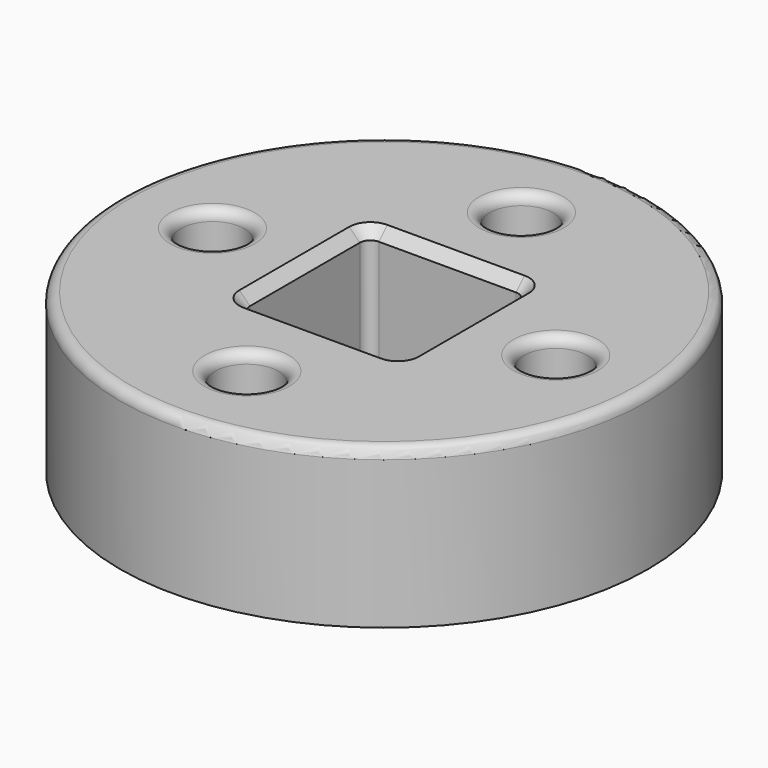
from build123d import *

# Parameters (mm, degrees)
F0_R     = 25
F1_DEPTH = 15
F2_R     = 3
F3_DEPTH = 15
F4_R     = 1
F5_SIZE  = 1


with BuildPart() as f1:
    # F0 (on Top) → F1 (new body)
    with BuildSketch(Plane.XY):
        with Locations((-0.018229, 0.1201)):
            Circle(F0_R)
        with BuildLine():
            Line((6.481771, -7.3799), (-6.518229, -7.3799))
            ThreePointArc((-6.518229, -7.3799), (-7.225335, -7.087007), (-7.518229, -6.3799))
            Line((-7.518229, -6.3799), (-7.518229, 6.6201))
            ThreePointArc((-7.518229, 6.6201), (-7.225335, 7.327207), (-6.518229, 7.6201))
            Line((-6.518229, 7.6201), (6.481771, 7.6201))
            ThreePointArc((6.481771, 7.6201), (7.188878, 7.327207), (7.481771, 6.6201))
            Line((7.481771, 6.6201), (7.481771, -6.3799))
            ThreePointArc((7.481771, -6.3799), (7.188878, -7.087007), (6.481771, -7.3799))
        make_face(mode=Mode.SUBTRACT)
    extrude(amount=F1_DEPTH)

    # F2 (on face) → F3 (cut)
    with BuildSketch(Plane.XY.offset(15)):
        with Locations((-0.018229, -16.1299)):
            Circle(F2_R)
        with Locations((16.231771, 0.1201)):
            Circle(F2_R)
        with Locations((-0.018229, 16.3701)):
            Circle(F2_R)
        with Locations((-16.268229, 0.1201)):
            Circle(F2_R)
    extrude(amount=-F3_DEPTH, mode=Mode.SUBTRACT)

    # F4
    f4_edges = [f1.edges().sort_by_distance(p)[0] for p in [
        (-25.018229, 0.1201, 15),
        (-19.268229, 0.1201, 15),
        (-3.018229, 16.3701, 15),
        (-3.018229, -16.1299, 15),
        (13.231771, 0.1201, 15),
    ]]
    fillet(f4_edges, radius=F4_R)

    # F5
    f5_edges = [f1.edges().sort_by_distance(p)[0] for p in [
        (-0.018229, -7.3799, 15),
        (7.481771, 0.1201, 15),
        (-0.018229, 7.6201, 15),
        (-7.518229, 0.1201, 15),
    ]]
    chamfer(f5_edges, length=F5_SIZE)


solid = f1.part
